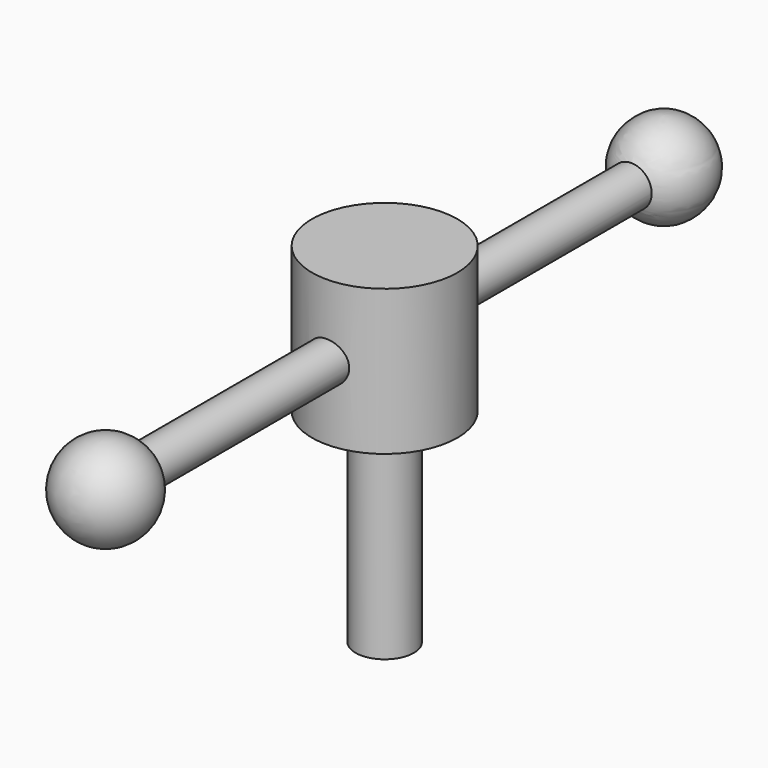
from build123d import *

# Parameters (mm, degrees)
F0_R          = 15.875
F1_DEPTH      = 31.75
F2_R          = 6.35
F3_DEPTH      = 44.45
F5_R          = 4.445
F6_DEPTH      = 76.2
F6_DEPTH_BACK = 76.2


with BuildPart() as f1:
    # F0 (on Top) → F1 (new body)
    with BuildSketch(Plane.XY):
        Circle(F0_R)
    extrude(amount=F1_DEPTH)

    # F2 (on face) → F3 (join)
    with BuildSketch(Plane(origin=(0, 0, 0), x_dir=(1, 0, 0), z_dir=(0, 0, -1))):
        Circle(F2_R)
    extrude(amount=F3_DEPTH)

    # F5 (on Front) → F6 (join, two sides)
    with BuildSketch(Plane.XZ) as f6_sk:
        with Locations((0, 15.875)):
            Circle(F5_R)
    extrude(amount=F6_DEPTH)
    extrude(f6_sk.sketch, amount=-F6_DEPTH_BACK)

    # F7 (on Right) → F8 (revolve)
    with BuildSketch(Plane.YZ):
        with BuildLine():
            Line((76.199338, 26.017351), (76.199338, 5.702869))
            ThreePointArc((76.199338, 5.702869), (86.122585, 15.86011), (76.199338, 26.017351))
        make_face()
    revolve(axis=Axis((0, 76.199338, 15.86011), (0, 0, -1)))

    # F7 (on Right) → F9 (revolve)
    with BuildSketch(Plane.YZ):
        with BuildLine():
            Line((-76.2, 5.715), (-76.2, 26.035))
            ThreePointArc((-76.2, 26.035), (-86.36, 15.875), (-76.2, 5.715))
        make_face()
    revolve(axis=Axis((0, -76.2, 15.875), (0, 0, -1)))


solid = f1.part
